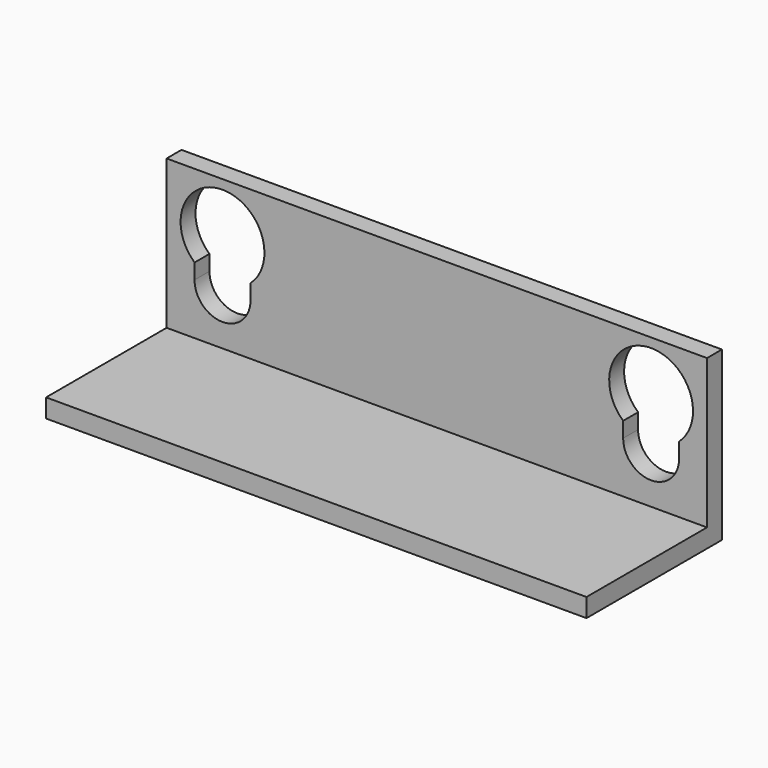
from build123d import *

# Parameters (mm, degrees)
F0_W      = 58
F0_H      = 16
F1_DEPTH  = 2
F2_W      = 58
F2_H      = 16.1694816779
F1_FACE_W = 58
F1_FACE_H = 2
F3_DEPTH  = 2


with BuildPart() as f1:
    # F0 (on Front) → F1 (new body)
    with BuildSketch(Plane.XZ):
        with Locations((0, 8)):
            Rectangle(F0_W, F0_H)
        with BuildLine():
            ThreePointArc((-20, 5.5), (-23, 2.5), (-26, 5.5))
            Line((-26, 5.5), (-26, 7.1458980338))
            ThreePointArc((-26, 7.1458980338), (-23, 15), (-20, 7.1458980338))
            Line((-20, 7.1458980338), (-20, 5.5))
        make_face(mode=Mode.SUBTRACT)
        with BuildLine():
            ThreePointArc((26, 5.5), (23, 2.5), (20, 5.5))
            Line((20, 5.5), (20, 7.1458980338))
            ThreePointArc((20, 7.1458980338), (23, 15), (26, 7.1458980338))
            Line((26, 7.1458980338), (26, 5.5))
        make_face(mode=Mode.SUBTRACT)
    extrude(amount=F1_DEPTH)

    # F2 (on Top) + F1_face (on face) → F3 (join)
    with BuildSketch(Plane.XY):
        with Locations((0, -10.084740839)):
            Rectangle(F2_W, F2_H)
    with BuildSketch(Plane(origin=(0, -1, 0), x_dir=(1, 0, 0), z_dir=(0, 0, -1))):
        Rectangle(F1_FACE_W, F1_FACE_H)
    extrude(amount=-F3_DEPTH, dir=(0, 0, 1))


solid = f1.part
